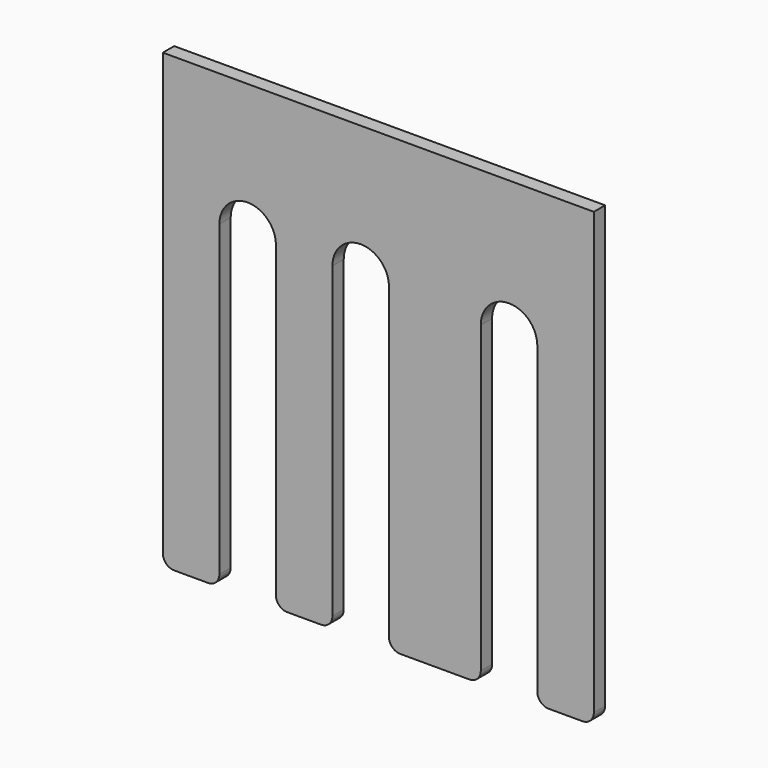
from build123d import *

# Parameters (mm, degrees)
F1_DEPTH = 6.35
F2_R     = 5.08


with BuildPart() as f1:
    # F0 (on Front) → F1 (new body)
    with BuildSketch(Plane.XZ):
        with BuildLine():
            Line((74.237378, 112.354313), (-119.437622, 112.354313))
            Line((-119.437622, 112.354313), (-119.437622, -90.845687))
            Line((-119.437622, -90.845687), (-94.037622, -90.845687))
            Line((-94.037622, -90.845687), (-94.037622, 52.75996))
            ThreePointArc((-94.037622, 52.75996), (-81.337622, 65.45996), (-68.637622, 52.75996))
            Line((-68.637622, 52.75996), (-68.637622, -90.845687))
            Line((-68.637622, -90.845687), (-43.237622, -90.845687))
            Line((-43.237622, -90.845687), (-43.237622, 52.771378))
            ThreePointArc((-43.237622, 52.771378), (-30.537622, 65.471378), (-17.837622, 52.771378))
            Line((-17.837622, 52.771378), (-17.837622, -90.845687))
            Line((-17.837622, -90.845687), (23.437378, -90.845687))
            Line((23.437378, -90.845687), (23.437378, 51.066604))
            ThreePointArc((23.437378, 51.066604), (36.137378, 63.766604), (48.837378, 51.066604))
            Line((48.837378, 51.066604), (48.837378, -90.845687))
            Line((48.837378, -90.845687), (74.237378, -90.845687))
            Line((74.237378, -90.845687), (74.237378, 112.354313))
        make_face()
    extrude(amount=-F1_DEPTH)

    # F2
    f2_edges = [f1.edges().sort_by_distance(p)[0] for p in [
        (-94.037622, 3.175, -90.845687),
        (-68.637622, 3.175, -90.845687),
        (-43.237622, 3.175, -90.845687),
        (-17.837622, 3.175, -90.845687),
        (23.437378, 3.175, -90.845687),
        (48.837378, 3.175, -90.845687),
        (74.237378, 3.175, -90.845687),
        (-119.437622, 3.175, -90.845687),
    ]]
    fillet(f2_edges, radius=F2_R)


solid = f1.part
